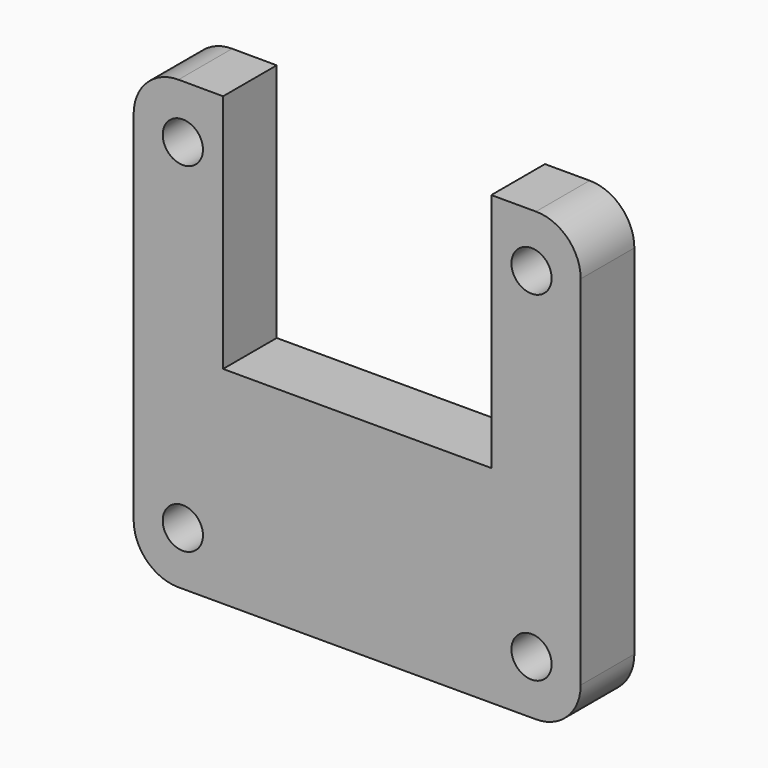
from build123d import *

# Parameters (mm, degrees)
F0_R     = 4.5
F1_DEPTH = 15


with BuildPart() as f1:
    # F0 (on Front) → F1 (new body)
    with BuildSketch(Plane.XZ):
        with BuildLine():
            ThreePointArc((-50, -45.538053), (-47.071068, -52.609121), (-40, -55.538053))
            Line((-40, -55.538053), (40, -55.538053))
            ThreePointArc((40, -55.538053), (47.071068, -52.609121), (50, -45.538053))
            Line((50, -45.538053), (50, 34.461947))
            ThreePointArc((50, 34.461947), (47.071068, 41.533014), (40, 44.461947))
            Line((40, 44.461947), (30, 44.461947))
            Line((30, 44.461947), (30, 35.594383))
            Line((30, 35.594383), (30, -9.293509))
            Line((30, -9.293509), (-30, -9.293509))
            Line((-30, -9.293509), (-30, 44.398757))
            Line((-30, 44.398757), (-39.968405, 44.430252))
            ThreePointArc((-39.968405, 44.430252), (-47.059889, 41.512531), (-50, 34.430302))
            Line((-50, 34.430302), (-50, -45.538053))
        make_face()
        with Locations((-39, -43.538053)):
            Circle(F0_R, mode=Mode.SUBTRACT)
        with Locations((39, -43.538053)):
            Circle(F0_R, mode=Mode.SUBTRACT)
        with Locations((-39, 32.427133)):
            Circle(F0_R, mode=Mode.SUBTRACT)
        with Locations((39, 32.461947)):
            Circle(F0_R, mode=Mode.SUBTRACT)
    extrude(amount=F1_DEPTH)


solid = f1.part
